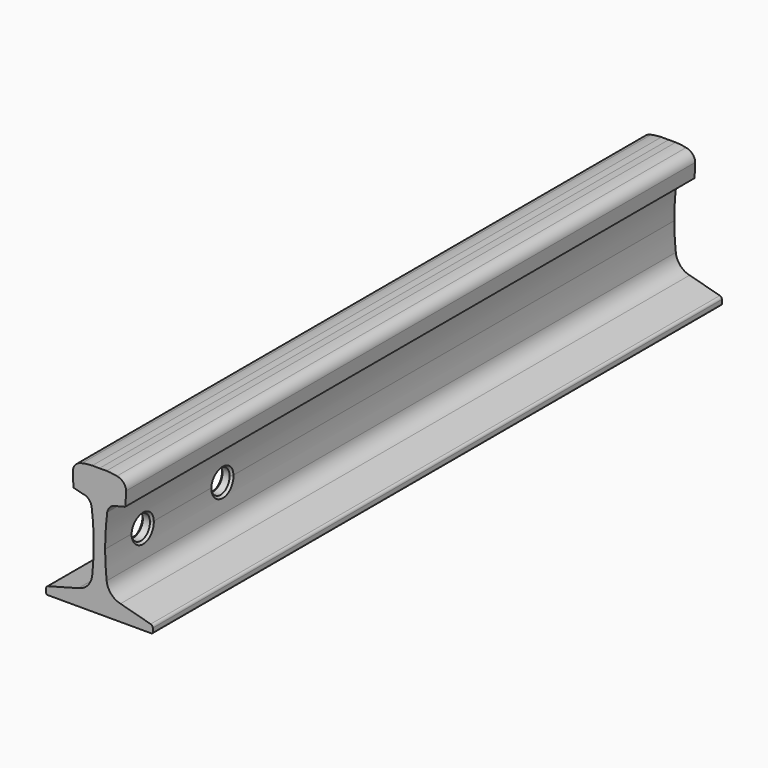
from build123d import *

# Parameters (mm, degrees)
PAD_DEPTH         = 1000
SKETCH001_R       = 16.5
POCKET_DEPTH      = 75.001
POCKET_DEPTH_BACK = -75.001
CHAMFER_SIZE      = 3


with BuildPart() as part:
    # Sketch → Pad (new body)
    with BuildSketch(Plane.XZ):
        with BuildLine():
            Line((19.6, 57.29476), (35.37225, 61.237751))
            ThreePointArc((35.37225, 61.237751), (35.968327, 61.45599), (36.505141, 61.79476))
            Line((37.5, 81.69476), (36.505141, 61.79476))
            ThreePointArc((37.5, 81.69476), (33.536318, 91.017729), (24.55, 95.69476))
            ThreePointArc((24.55, 95.69476), (17.316321, 96.928769), (10, 97.49476))
            ThreePointArc((10, 97.49476), (4.99975, 97.469762), (0, 97.39476))
            ThreePointArc((0, 97.39476), (-4.99975, 97.469762), (-10, 97.49476))
            ThreePointArc((-10, 97.49476), (-17.316321, 96.928769), (-24.55, 95.69476))
            ThreePointArc((-24.55, 95.69476), (-33.536318, 91.017729), (-37.5, 81.69476))
            Line((-37.5, 81.69476), (-36.505141, 61.79476))
            ThreePointArc((-36.505141, 61.79476), (-35.968327, 61.45599), (-35.37225, 61.237751))
            Line((-19.6, 57.29476), (-35.37225, 61.237751))
            ThreePointArc((-16.4, 55.49476), (-17.879885, 56.608297), (-19.6, 57.29476))
            ThreePointArc((-10.98, 46.59476), (-12.892314, 51.530541), (-16.4, 55.49476))
            ThreePointArc((-8, -0.10524), (-8.750975, 23.291918), (-10.98, 46.59476))
            ThreePointArc((-10.177961, -38.656567), (-8.62353, -19.4072), (-8, -0.10524))
            ThreePointArc((-29.6, -60.556567), (-16.348692, -52.746276), (-10.177961, -38.656567))
            Line((-29.6, -60.556567), (-72.037726, -71.956567))
            ThreePointArc((-72.037726, -71.956567), (-74.174185, -73.385574), (-75, -75.819614))
            Line((-75, -81.156567), (-75, -75.819614))
            ThreePointArc((-75, -81.156567), (-74.414214, -82.570781), (-73, -83.156567))
            Line((-73, -83.156567), (0, -83.156567))
            Line((73, -83.156567), (0, -83.156567))
            ThreePointArc((73, -83.156567), (74.414214, -82.570781), (75, -81.156567))
            Line((75, -81.156567), (75, -75.819614))
            ThreePointArc((75, -75.819614), (74.174185, -73.385574), (72.037726, -71.956567))
            Line((29.6, -60.556567), (72.037726, -71.956567))
            ThreePointArc((10.177961, -38.656567), (16.348692, -52.746276), (29.6, -60.556567))
            ThreePointArc((8, -0.10524), (8.62353, -19.4072), (10.177961, -38.656567))
            ThreePointArc((10.98, 46.59476), (8.750975, 23.291918), (8, -0.10524))
            ThreePointArc((16.4, 55.49476), (12.892314, 51.530541), (10.98, 46.59476))
            ThreePointArc((19.6, 57.29476), (17.879885, 56.608297), (16.4, 55.49476))
        make_face()
    extrude(amount=-PAD_DEPTH)

    # Sketch001 (on DatumPlane) → Pocket (cut, two sides)
    with BuildSketch(Plane.YZ) as pocket_sk:
        with Locations((66, -0.919239)):
            Circle(SKETCH001_R)
        with Locations((206, -0.919239)):
            Circle(SKETCH001_R)
    extrude(amount=-POCKET_DEPTH, mode=Mode.SUBTRACT)
    extrude(pocket_sk.sketch, amount=-POCKET_DEPTH_BACK, mode=Mode.SUBTRACT)

    # Chamfer
    chamfer_edges = [part.edges().sort_by_distance(p)[0] for p in [
        (8.515923, 65.59286, -17.414215),
        (8.33966, 66, 15.580761),
        (8.515923, 205.59286, -17.414215),
        (8.33966, 206, 15.580761),
        (-8.33966, 206, 15.580761),
        (-8.515923, 205.59286, -17.414215),
        (-8.515923, 65.59286, -17.414215),
        (-8.33966, 66, 15.580761),
    ]]
    chamfer(chamfer_edges, length=CHAMFER_SIZE)


solid = part.part
